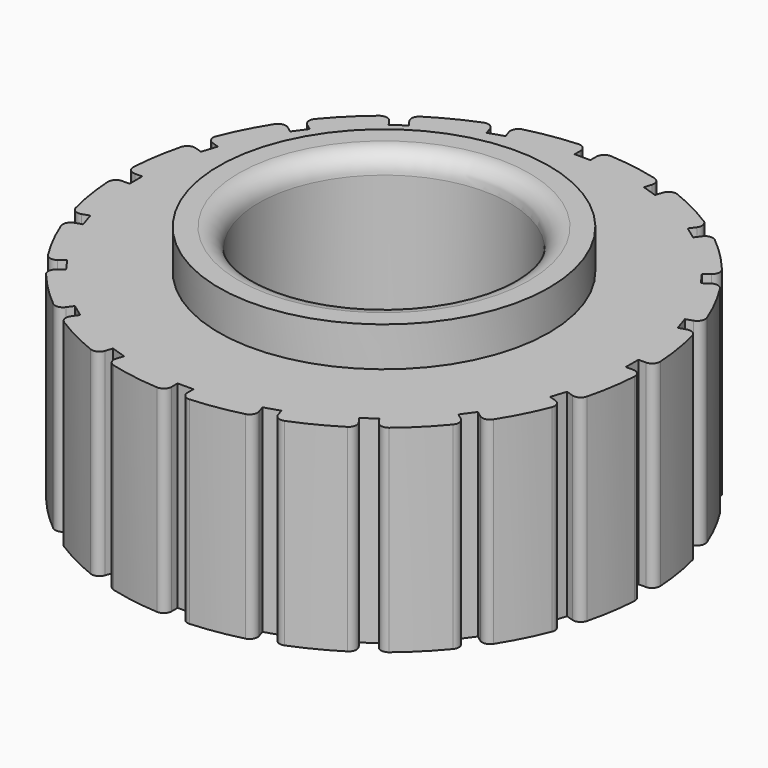
from build123d import *

# Parameters (mm, degrees)
F0_R     = 8.35
F0_R_2   = 6.35
F1_DEPTH = 12
F2_DEPTH = 10
F3_R     = 1


with BuildPart() as f1:
    # F0 (on Top) → F1 (new body)
    with BuildSketch(Plane.XY):
        Circle(F0_R)
        Circle(F0_R_2, mode=Mode.SUBTRACT)
    extrude(amount=F1_DEPTH)

    # F0 (on Top) → F2 (join)
    with BuildSketch(Plane.XY):
        with BuildLine():
            ThreePointArc((12.925266, 0.4), (13.216714, 0.526033), (13.324502, 0.82471))
            ThreePointArc((13.324502, 0.82471), (13.185639, 2.0884), (12.927204, 3.333151))
            ThreePointArc((12.927204, 3.333151), (12.732395, 3.583902), (12.416265, 3.613704))
            Line((12.416265, 3.613704), (12.059366, 3.497741))
            Line((12.059366, 3.497741), (11.812152, 4.258586))
            Line((11.812152, 4.258586), (12.169052, 4.374549))
            ThreePointArc((12.169052, 4.374549), (12.407289, 4.584476), (12.417505, 4.901844))
            ThreePointArc((12.417505, 4.901844), (11.894937, 6.060773), (11.264501, 7.164741))
            ThreePointArc((11.264501, 7.164741), (11.001741, 7.34302), (10.691874, 7.273674))
            Line((10.691874, 7.273674), (10.388277, 7.053098))
            Line((10.388277, 7.053098), (9.918049, 7.700312))
            Line((9.918049, 7.700312), (10.221646, 7.920888))
            ThreePointArc((10.221646, 7.920888), (10.383352, 8.194159), (10.294996, 8.499151))
            ThreePointArc((10.294996, 8.499151), (9.439876, 9.439876), (8.499151, 10.294996))
            ThreePointArc((8.499151, 10.294996), (8.194159, 10.383352), (7.920888, 10.221646))
            Line((7.920888, 10.221646), (7.700312, 9.918049))
            Line((7.700312, 9.918049), (7.053098, 10.388277))
            Line((7.053098, 10.388277), (7.273674, 10.691874))
            ThreePointArc((7.273674, 10.691874), (7.34302, 11.001741), (7.164741, 11.264501))
            ThreePointArc((7.164741, 11.264501), (6.060773, 11.894937), (4.901844, 12.417505))
            ThreePointArc((4.901844, 12.417505), (4.584476, 12.407289), (4.374549, 12.169052))
            Line((4.374549, 12.169052), (4.258586, 11.812152))
            Line((4.258586, 11.812152), (3.497741, 12.059366))
            Line((3.497741, 12.059366), (3.613704, 12.416265))
            ThreePointArc((3.613704, 12.416265), (3.583902, 12.732395), (3.333151, 12.927204))
            ThreePointArc((3.333151, 12.927204), (2.0884, 13.185639), (0.82471, 13.324502))
            ThreePointArc((0.82471, 13.324502), (0.526033, 13.216714), (0.4, 12.925266))
            Line((0.4, 12.925266), (0.4, 12.55))
            Line((0.4, 12.55), (-0.4, 12.55))
            Line((-0.4, 12.55), (-0.4, 12.925266))
            ThreePointArc((-0.4, 12.925266), (-0.526033, 13.216714), (-0.82471, 13.324502))
            ThreePointArc((-0.82471, 13.324502), (-2.0884, 13.185639), (-3.333151, 12.927204))
            ThreePointArc((-3.333151, 12.927204), (-3.583902, 12.732395), (-3.613704, 12.416265))
            Line((-3.613704, 12.416265), (-3.497741, 12.059366))
            Line((-3.497741, 12.059366), (-4.258586, 11.812152))
            Line((-4.258586, 11.812152), (-4.374549, 12.169052))
            ThreePointArc((-4.374549, 12.169052), (-4.584476, 12.407289), (-4.901844, 12.417505))
            ThreePointArc((-4.901844, 12.417505), (-6.060773, 11.894937), (-7.164741, 11.264501))
            ThreePointArc((-7.164741, 11.264501), (-7.34302, 11.001741), (-7.273674, 10.691874))
            Line((-7.273674, 10.691874), (-7.053098, 10.388277))
            Line((-7.053098, 10.388277), (-7.700312, 9.918049))
            Line((-7.700312, 9.918049), (-7.920888, 10.221646))
            ThreePointArc((-7.920888, 10.221646), (-8.194159, 10.383352), (-8.499151, 10.294996))
            ThreePointArc((-8.499151, 10.294996), (-9.439876, 9.439876), (-10.294996, 8.499151))
            ThreePointArc((-10.294996, 8.499151), (-10.383352, 8.194159), (-10.221646, 7.920888))
            Line((-10.221646, 7.920888), (-9.918049, 7.700312))
            Line((-9.918049, 7.700312), (-10.388277, 7.053098))
            Line((-10.388277, 7.053098), (-10.691874, 7.273674))
            ThreePointArc((-10.691874, 7.273674), (-11.001741, 7.34302), (-11.264501, 7.164741))
            ThreePointArc((-11.264501, 7.164741), (-11.894937, 6.060773), (-12.417505, 4.901844))
            ThreePointArc((-12.417505, 4.901844), (-12.407289, 4.584476), (-12.169052, 4.374549))
            Line((-12.169052, 4.374549), (-11.812152, 4.258586))
            Line((-11.812152, 4.258586), (-12.059366, 3.497741))
            Line((-12.059366, 3.497741), (-12.416265, 3.613704))
            ThreePointArc((-12.416265, 3.613704), (-12.732395, 3.583902), (-12.927204, 3.333151))
            ThreePointArc((-12.927204, 3.333151), (-13.185639, 2.0884), (-13.324502, 0.82471))
            ThreePointArc((-13.324502, 0.82471), (-13.216714, 0.526033), (-12.925266, 0.4))
            Line((-12.925266, 0.4), (-12.55, 0.4))
            Line((-12.55, 0.4), (-12.55, -0.4))
            Line((-12.55, -0.4), (-12.925266, -0.4))
            ThreePointArc((-12.925266, -0.4), (-13.216714, -0.526033), (-13.324502, -0.82471))
            ThreePointArc((-13.324502, -0.82471), (-13.185639, -2.0884), (-12.927204, -3.333151))
            ThreePointArc((-12.927204, -3.333151), (-12.732395, -3.583902), (-12.416265, -3.613704))
            Line((-12.416265, -3.613704), (-12.059366, -3.497741))
            Line((-12.059366, -3.497741), (-11.812152, -4.258586))
            Line((-11.812152, -4.258586), (-12.169052, -4.374549))
            ThreePointArc((-12.169052, -4.374549), (-12.407289, -4.584476), (-12.417505, -4.901844))
            ThreePointArc((-12.417505, -4.901844), (-11.894937, -6.060773), (-11.264501, -7.164741))
            ThreePointArc((-11.264501, -7.164741), (-11.001741, -7.34302), (-10.691874, -7.273674))
            Line((-10.691874, -7.273674), (-10.388277, -7.053098))
            Line((-10.388277, -7.053098), (-9.918049, -7.700312))
            Line((-9.918049, -7.700312), (-10.221646, -7.920888))
            ThreePointArc((-10.221646, -7.920888), (-10.383352, -8.194159), (-10.294996, -8.499151))
            ThreePointArc((-10.294996, -8.499151), (-9.439876, -9.439876), (-8.499151, -10.294996))
            ThreePointArc((-8.499151, -10.294996), (-8.194159, -10.383352), (-7.920888, -10.221646))
            Line((-7.920888, -10.221646), (-7.700312, -9.918049))
            Line((-7.700312, -9.918049), (-7.053098, -10.388277))
            Line((-7.053098, -10.388277), (-7.273674, -10.691874))
            ThreePointArc((-7.273674, -10.691874), (-7.34302, -11.001741), (-7.164741, -11.264501))
            ThreePointArc((-7.164741, -11.264501), (-6.060773, -11.894937), (-4.901844, -12.417505))
            ThreePointArc((-4.901844, -12.417505), (-4.584476, -12.407289), (-4.374549, -12.169052))
            Line((-4.374549, -12.169052), (-4.258586, -11.812152))
            Line((-4.258586, -11.812152), (-3.497741, -12.059366))
            Line((-3.497741, -12.059366), (-3.613704, -12.416265))
            ThreePointArc((-3.613704, -12.416265), (-3.583902, -12.732395), (-3.333151, -12.927204))
            ThreePointArc((-3.333151, -12.927204), (-2.0884, -13.185639), (-0.82471, -13.324502))
            ThreePointArc((-0.82471, -13.324502), (-0.526033, -13.216714), (-0.4, -12.925266))
            Line((-0.4, -12.925266), (-0.4, -12.55))
            Line((-0.4, -12.55), (0.4, -12.55))
            Line((0.4, -12.55), (0.4, -12.925266))
            ThreePointArc((0.4, -12.925266), (0.526033, -13.216714), (0.82471, -13.324502))
            ThreePointArc((0.82471, -13.324502), (2.0884, -13.185639), (3.333151, -12.927204))
            ThreePointArc((3.333151, -12.927204), (3.583902, -12.732395), (3.613704, -12.416265))
            Line((3.613704, -12.416265), (3.497741, -12.059366))
            Line((3.497741, -12.059366), (4.258586, -11.812152))
            Line((4.258586, -11.812152), (4.374549, -12.169052))
            ThreePointArc((4.374549, -12.169052), (4.584476, -12.407289), (4.901844, -12.417505))
            ThreePointArc((4.901844, -12.417505), (6.060773, -11.894937), (7.164741, -11.264501))
            ThreePointArc((7.164741, -11.264501), (7.34302, -11.001741), (7.273674, -10.691874))
            Line((7.273674, -10.691874), (7.053098, -10.388277))
            Line((7.053098, -10.388277), (7.700312, -9.918049))
            Line((7.700312, -9.918049), (7.920888, -10.221646))
            ThreePointArc((7.920888, -10.221646), (8.194159, -10.383352), (8.499151, -10.294996))
            ThreePointArc((8.499151, -10.294996), (9.439876, -9.439876), (10.294996, -8.499151))
            ThreePointArc((10.294996, -8.499151), (10.383352, -8.194159), (10.221646, -7.920888))
            Line((10.221646, -7.920888), (9.918049, -7.700312))
            Line((9.918049, -7.700312), (10.388277, -7.053098))
            Line((10.388277, -7.053098), (10.691874, -7.273674))
            ThreePointArc((10.691874, -7.273674), (11.001741, -7.34302), (11.264501, -7.164741))
            ThreePointArc((11.264501, -7.164741), (11.894937, -6.060773), (12.417505, -4.901844))
            ThreePointArc((12.417505, -4.901844), (12.407289, -4.584476), (12.169052, -4.374549))
            Line((12.169052, -4.374549), (11.812152, -4.258586))
            Line((11.812152, -4.258586), (12.059366, -3.497741))
            Line((12.059366, -3.497741), (12.416265, -3.613704))
            ThreePointArc((12.416265, -3.613704), (12.732395, -3.583902), (12.927204, -3.333151))
            ThreePointArc((12.927204, -3.333151), (13.185639, -2.0884), (13.324502, -0.82471))
            ThreePointArc((13.324502, -0.82471), (13.216714, -0.526033), (12.925266, -0.4))
            Line((12.925266, -0.4), (12.55, -0.4))
            Line((12.55, -0.4), (12.55, 0.4))
            Line((12.55, 0.4), (12.925266, 0.4))
        make_face()
        Circle(F0_R, mode=Mode.SUBTRACT)
    extrude(amount=F2_DEPTH)

    # F3
    f3_edges = [f1.edges().sort_by_distance(p)[0] for p in [
        (-6.35, 0, 12),
    ]]
    fillet(f3_edges, radius=F3_R)


solid = f1.part
